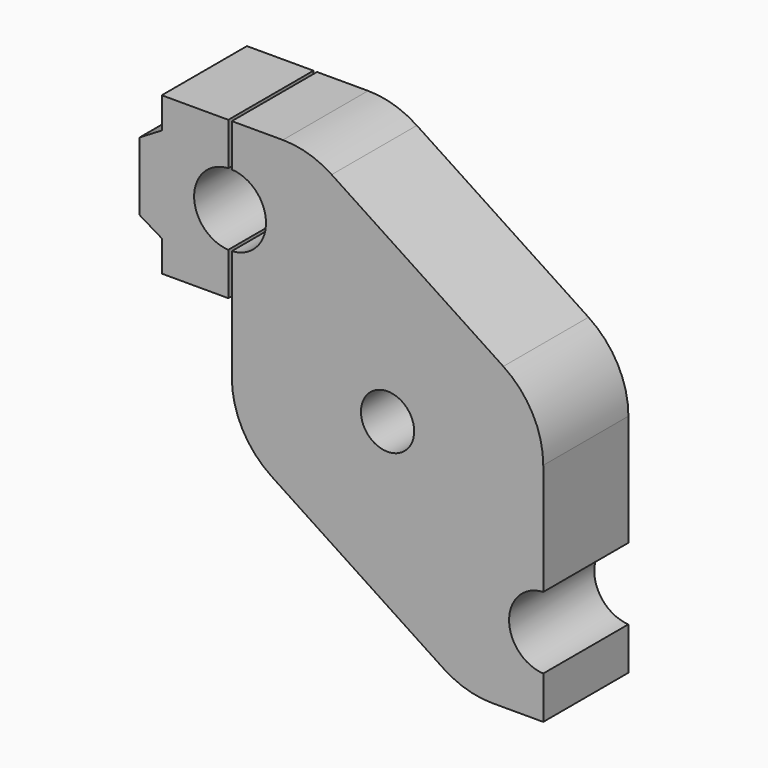
from build123d import *

# Parameters (mm, degrees)
F1_DEPTH = 24
F0_R     = 6
F2_DEPTH = 24


with BuildPart() as f1:
    # F0 (on Front) → F1 (new body)
    with BuildSketch(Plane.XZ):
        with BuildLine():
            Line((-35.9, 38.590117), (-35.9, 48.2))
            Line((-35.9, 48.2), (-50.9, 48.2))
            Line((-50.9, 48.2), (-50.9, 41.2))
            Line((-50.9, 41.2), (-55.9, 38.2))
            Line((-55.9, 38.2), (-55.9, 22.8))
            Line((-55.9, 22.8), (-50.9, 19.8))
            Line((-50.9, 19.8), (-50.9, 12.8))
            Line((-50.9, 12.8), (-35.9, 12.8))
            Line((-35.9, 12.8), (-35.9, 22.409883))
            ThreePointArc((-35.9, 22.409883), (-43.6, 30.5), (-35.9, 38.590117))
        make_face()
    extrude(amount=F1_DEPTH)


with BuildPart() as f2:
    # F0 (on Front) → F2 (new body)
    with BuildSketch(Plane.XZ):
        with BuildLine():
            ThreePointArc((-35.1, 38.590117), (-27.4, 30.5), (-35.1, 22.409883))
            Line((-35.1, 22.409883), (-35.1, 12.8))
            Line((-35.1, 12.8), (-35.1, 0))
            Line((-35.1, 0), (-35.1, -2.722703))
            ThreePointArc((-35.1, -2.722703), (-32.706457, -12.210204), (-26.098733, -19.426831))
            Line((-26.098733, -19.426831), (12.594453, -44.904127))
            ThreePointArc((12.594453, -44.904127), (17.852217, -47.358321), (23.593186, -48.2))
            Line((23.593186, -48.2), (35.1, -48.2))
            Line((35.1, -48.2), (35.1, -38.590117))
            ThreePointArc((35.1, -38.590117), (27.4, -30.5), (35.1, -22.409883))
            Line((35.1, -22.409883), (35.1, -12.8))
            Line((35.1, -12.8), (35.1, 0))
            Line((35.1, 0), (35.1, 2.722703))
            ThreePointArc((35.1, 2.722703), (32.706457, 12.210204), (26.098733, 19.426831))
            Line((26.098733, 19.426831), (-12.594453, 44.904127))
            ThreePointArc((-12.594453, 44.904127), (-17.852217, 47.358321), (-23.593186, 48.2))
            Line((-23.593186, 48.2), (-35.1, 48.2))
            Line((-35.1, 48.2), (-35.1, 38.590117))
        make_face()
        Circle(F0_R, mode=Mode.SUBTRACT)
    extrude(amount=F2_DEPTH)


solid = Compound([f1.part, f2.part])
